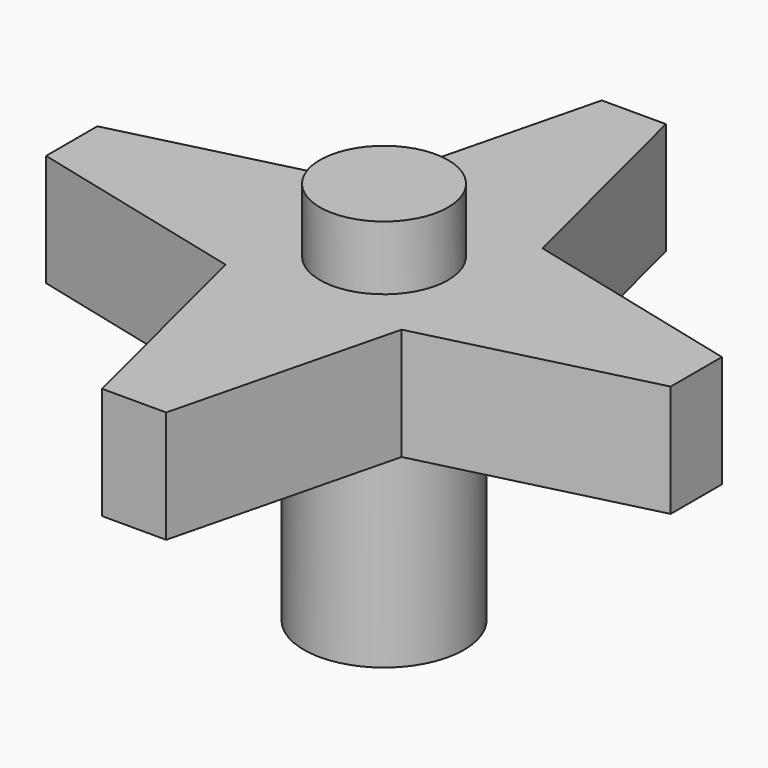
from build123d import *

# Parameters (mm, degrees)
F0_W     = 11
F0_H     = 11
F0_R     = 5
F1_DEPTH = 7
F2_DEPTH = 13
F3_R     = 4
F4_DEPTH = 4


with BuildPart() as f1:
    # F0 (on Top) → F1 (new body)
    with BuildSketch(Plane.XY):
        Rectangle(F0_W, F0_H)
        Circle(F0_R, mode=Mode.SUBTRACT)
        Circle(F0_R)
        Polygon((2, -19.5), (5.5, -5.5), (-5.5, -5.5), (-2, -19.5), align=None)
        Polygon((5.5, 5.5), (5.5, -5.5), (19.5, -2), (19.5, 2), align=None)
        Polygon((-19.5, -2), (-5.5, -5.5), (-5.5, 5.5), (-19.5, 2), align=None)
        Polygon((-5.5, 5.5), (5.5, 5.5), (2, 19.5), (-2, 19.5), align=None)
    extrude(amount=F1_DEPTH)

    # F0 (on Top) → F2 (join)
    with BuildSketch(Plane.XY):
        Circle(F0_R)
    extrude(amount=-F2_DEPTH)

    # F3 (on face) → F4 (join)
    with BuildSketch(Plane.XY.offset(7)):
        Circle(F3_R)
    extrude(amount=F4_DEPTH)


solid = f1.part
